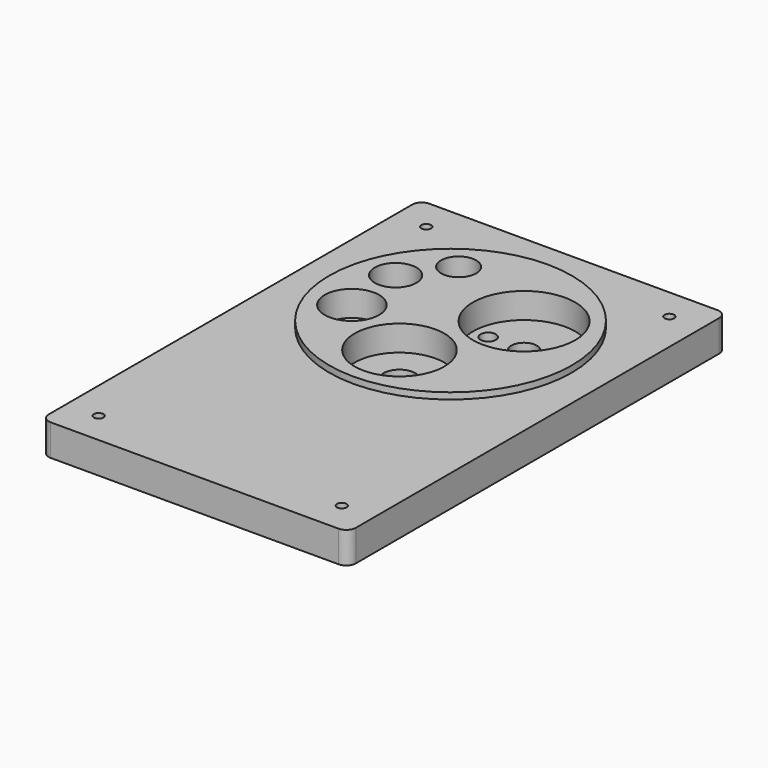
from build123d import *

# Parameters (mm, degrees)
PAD004_DEPTH    = 9.8
SKETCH080_R     = 37.95
PAD016_DEPTH    = 11.8
SKETCH081_R     = 5.5
SKETCH081_R_2   = 6.5
SKETCH081_R_3   = 8.5
SKETCH081_R_4   = 14
SKETCH081_R_5   = 16
POCKET007_DEPTH = 8
SKETCH082_R     = 1.5
SKETCH082_R_2   = 4
SKETCH082_R_3   = 2.4
SKETCH082_R_4   = 3
SKETCH082_R_5   = 6
SKETCH082_R_6   = 5
POCKET008_DEPTH = 11.801


with BuildPart() as part:
    # Sketch041 → Pad004 (new body)
    with BuildSketch(Plane.XY):
        with BuildLine():
            Line((-48, 145), (-48, 3))
            ThreePointArc((-48, 3), (-47.12132, 0.87868), (-45, 0))
            Line((-45, 0), (45, 0))
            ThreePointArc((45, 0), (47.12132, 0.87868), (48, 3))
            Line((48, 145), (48, 3))
            ThreePointArc((48, 145), (47.12132, 147.12132), (45, 148))
            Line((-45, 148), (45, 148))
            ThreePointArc((-45, 148), (-47.12132, 147.12132), (-48, 145))
        make_face()
    extrude(amount=PAD004_DEPTH)

    # Sketch080 (on Pad) → Pad016 (join)
    with BuildSketch(Plane.XY):
        with Locations((0, 100)):
            Circle(SKETCH080_R)
    extrude(amount=PAD016_DEPTH)

    # Sketch081 (on Face13 of Pad016) → Pocket007 (cut)
    with BuildSketch(Plane.XY.offset(11.8)):
        with Locations((-16.188435, 123.395236)):
            Circle(SKETCH081_R)
        with Locations((-25.430368, 110.334353)):
            Circle(SKETCH081_R_2)
        with Locations((-23.950087, 91.392105)):
            Circle(SKETCH081_R_3)
        with Locations((0, 80.05)):
            Circle(SKETCH081_R_4)
        with Locations((14.244595, 110.92218)):
            Circle(SKETCH081_R_5)
    extrude(amount=-POCKET007_DEPTH, mode=Mode.SUBTRACT)

    # Sketch082 (on Face13 of Pocket007) → Pocket008 (cut, through all)
    with BuildSketch(Plane.XY.offset(11.8)):
        with Locations((-38, 138)):
            Circle(SKETCH082_R)
        with Locations((38, 138)):
            Circle(SKETCH082_R)
        with Locations((14.244595, 110.92218)):
            Circle(SKETCH082_R_2)
        with Locations((3.044595, 110.92218)):
            Circle(SKETCH082_R_3)
        with Locations((-16.188435, 123.395236)):
            Circle(SKETCH082_R_4)
        with Locations((-25.430368, 110.334353)):
            Circle(SKETCH082_R_2)
        with Locations((-23.950087, 91.392105)):
            Circle(SKETCH082_R_5)
        with Locations((0, 80.05)):
            Circle(SKETCH082_R_6)
        with Locations((-38, 10)):
            Circle(SKETCH082_R)
        with Locations((38, 10)):
            Circle(SKETCH082_R)
    extrude(amount=-POCKET008_DEPTH, mode=Mode.SUBTRACT)


with BuildPart() as part_1:
    # Body002 placement: moved
    add(part.part.moved(Location((0, -800, 0))))


solid = part_1.part
